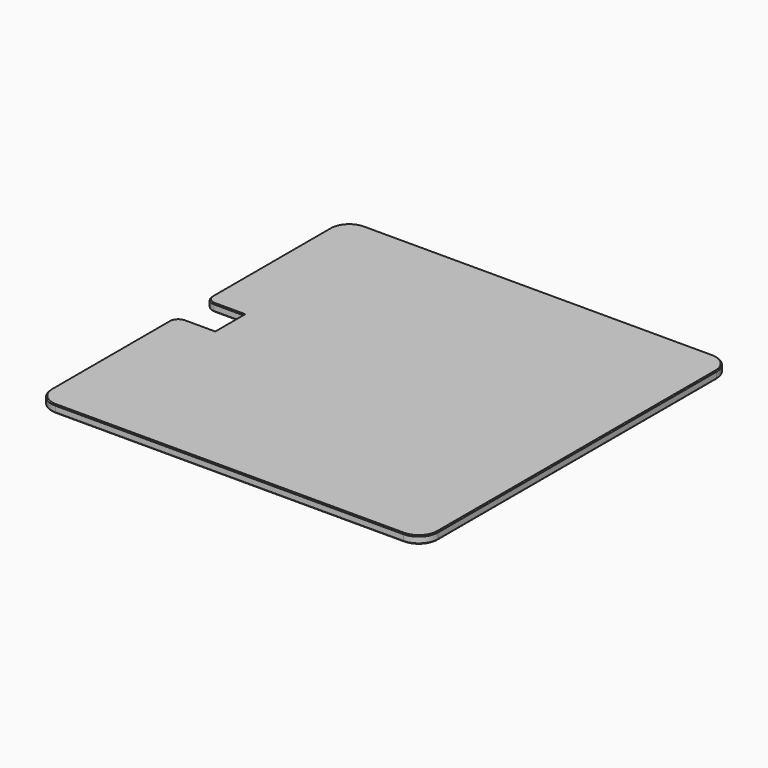
from build123d import *

# Parameters (mm, degrees)
F1_DEPTH = 4
F2_SIZE  = 0.5


with BuildPart() as f1:
    # F0 (on Top) → F1 (new body)
    with BuildSketch(Plane.XY):
        with BuildLine():
            Line((-90, -100), (90, -100))
            ThreePointArc((90, -100), (97.071068, -97.071068), (100, -90))
            Line((100, -90), (100, 90))
            ThreePointArc((100, 90), (97.071068, 97.071068), (90, 100))
            Line((90, 100), (-90, 100))
            ThreePointArc((-90, 100), (-97.071068, 97.071068), (-100, 90))
            Line((-100, 90), (-100, 14))
            ThreePointArc((-100, 14), (-98.594113, 10.605887), (-95.2, 9.2))
            Line((-95.2, 9.2), (-80, 9.2))
            Line((-80, 9.2), (-80, -9.2))
            Line((-80, -9.2), (-95.2, -9.2))
            ThreePointArc((-95.2, -9.2), (-98.594113, -10.605887), (-100, -14))
            Line((-100, -14), (-100, -90))
            ThreePointArc((-100, -90), (-97.071068, -97.071068), (-90, -100))
        make_face()
    extrude(amount=F1_DEPTH)

    # F2
    f2_edges = [f1.edges().sort_by_distance(p)[0] for p in [
        (0, -100, 4),
        (97.071068, -97.071068, 4),
        (100, 0, 4),
        (97.071068, 97.071068, 4),
        (0, 100, 4),
        (-97.071068, 97.071068, 4),
        (-100, 52, 4),
        (-98.594113, 10.605887, 4),
        (-87.6, 9.2, 4),
        (-80, 0, 4),
        (-87.6, -9.2, 4),
        (-98.594113, -10.605887, 4),
        (-100, -52, 4),
        (-97.071068, -97.071068, 4),
        (0, -100, 0),
        (97.071068, -97.071068, 0),
        (100, 0, 0),
        (97.071068, 97.071068, 0),
        (0, 100, 0),
        (-97.071068, 97.071068, 0),
        (-100, 52, 0),
        (-98.594113, 10.605887, 0),
        (-87.6, 9.2, 0),
        (-80, 0, 0),
        (-87.6, -9.2, 0),
        (-98.594113, -10.605887, 0),
        (-100, -52, 0),
        (-97.071068, -97.071068, 0),
    ]]
    chamfer(f2_edges, length=F2_SIZE)


solid = f1.part
